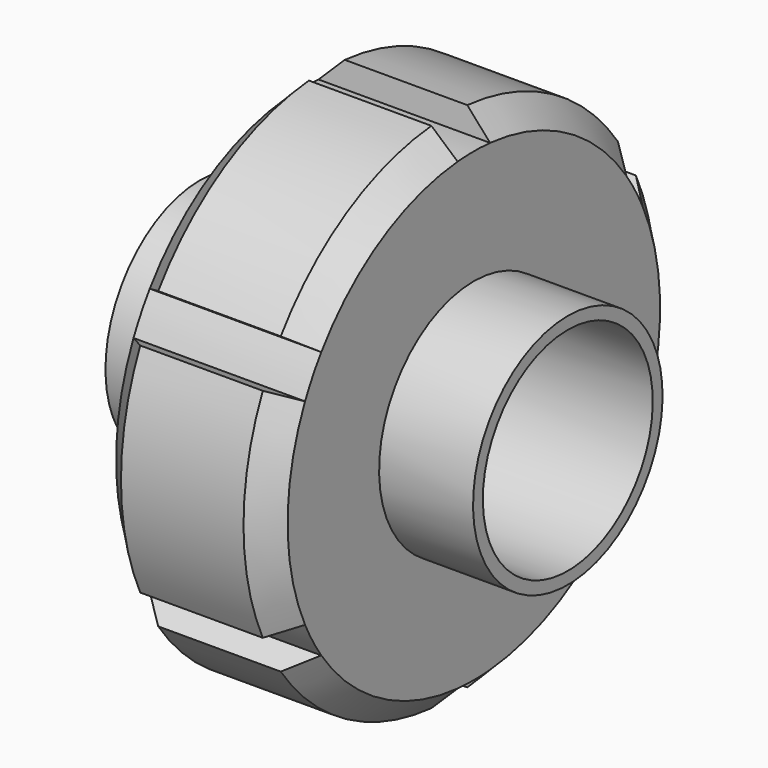
from build123d import *

# Parameters (mm, degrees)
F2_SIZE  = 3
F4_DEPTH = 25


with BuildPart() as f1:
    # F0 (on Front) → F1 (revolve)
    with BuildSketch(Plane.XZ):
        Polygon((0, 31.5), (0, 14.5), (10.5, 14.5), (10.5, 13), (32.5, 13), (32.5, 14.5), (21, 14.5), (21, 31.5), align=None)
    revolve(axis=Axis((22.6291795194, 0, 0), (1, 0, 0)))

    # F2
    f2_edges = [f1.edges().sort_by_distance(p)[0] for p in [
        (0, 0, -31.5),
        (21, 0, -31.5),
    ]]
    chamfer(f2_edges, length=F2_SIZE)

    # F3 (on face) → F4 (cut)
    with BuildSketch(Plane(origin=(0, 0, 0), x_dir=(0, -1, 0), z_dir=(-1, 0, 0))):
        with BuildLine():
            Line((2.4839386683, 28.3915488956), (2.7454058966, 31.3801329899))
            ThreePointArc((2.7454058966, 31.3801329899), (0, 31.5), (-2.7454058966, 31.3801329899))
            Line((-2.7454058966, 31.3801329899), (-2.4839386683, 28.3915488956))
            ThreePointArc((-2.4839386683, 28.3915488956), (0, 28.5), (2.4839386683, 28.3915488956))
        make_face()
        with BuildLine():
            ThreePointArc((-25.8297719305, 12.0446204596), (-24.6817240079, 14.25), (-23.3458332622, 16.346928436))
            Line((-23.3458332622, 16.346928436), (-25.8032893951, 18.0676577451))
            ThreePointArc((-25.8032893951, 18.0676577451), (-27.2798002192, 15.75), (-28.5486952917, 13.3124752448))
            Line((-28.5486952917, 13.3124752448), (-25.8297719305, 12.0446204596))
        make_face()
        with BuildLine():
            ThreePointArc((-23.3458332622, -16.346928436), (-24.6817240079, -14.25), (-25.8297719305, -12.0446204596))
            Line((-25.8297719305, -12.0446204596), (-28.5486952917, -13.3124752448))
            ThreePointArc((-28.5486952917, -13.3124752448), (-27.2798002192, -15.75), (-25.8032893951, -18.0676577451))
            Line((-25.8032893951, -18.0676577451), (-23.3458332622, -16.346928436))
        make_face()
        with BuildLine():
            ThreePointArc((2.4839386683, -28.3915488956), (0, -28.5), (-2.4839386683, -28.3915488956))
            Line((-2.4839386683, -28.3915488956), (-2.7454058966, -31.3801329899))
            ThreePointArc((-2.7454058966, -31.3801329899), (0, -31.5), (2.7454058966, -31.3801329899))
            Line((2.7454058966, -31.3801329899), (2.4839386683, -28.3915488956))
        make_face()
        with BuildLine():
            ThreePointArc((25.8297719305, -12.0446204596), (24.6817240079, -14.25), (23.3458332622, -16.346928436))
            Line((23.3458332622, -16.346928436), (25.8032893951, -18.0676577451))
            ThreePointArc((25.8032893951, -18.0676577451), (27.2798002192, -15.75), (28.5486952917, -13.3124752448))
            Line((28.5486952917, -13.3124752448), (25.8297719305, -12.0446204596))
        make_face()
        with BuildLine():
            ThreePointArc((23.3458332622, 16.346928436), (24.6817240079, 14.25), (25.8297719305, 12.0446204596))
            Line((25.8297719305, 12.0446204596), (28.5486952917, 13.3124752448))
            ThreePointArc((28.5486952917, 13.3124752448), (27.2798002192, 15.75), (25.8032893951, 18.0676577451))
            Line((25.8032893951, 18.0676577451), (23.3458332622, 16.346928436))
        make_face()
    extrude(amount=-F4_DEPTH, mode=Mode.SUBTRACT)


with BuildPart() as f6:
    # F5 (on Front) → F6 (revolve)
    with BuildSketch(Plane.XZ):
        Polygon((-1, 14.5), (-12.5, 14.5), (-12.5, 13), (9.5, 13), (9.5, 14), (-1, 14), align=None)
    revolve(axis=Axis((-8.3157410845, 0, 0), (-1, 0, 0)))


solid = Compound([f1.part, f6.part])
